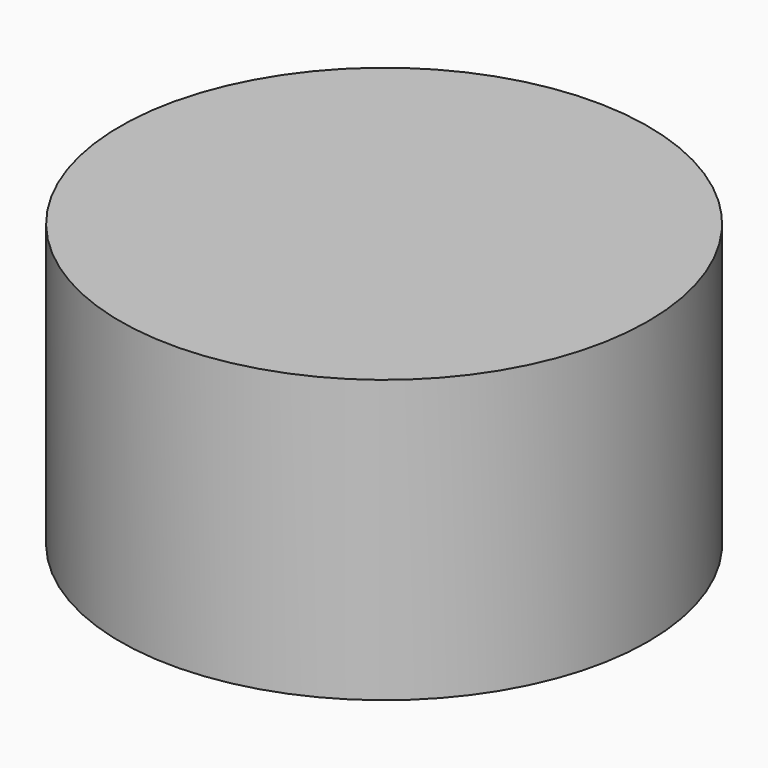
from build123d import *

# Parameters (mm, degrees)
PRISM009_DEPTH    = 1.1
CYLINDER054_R     = 2.34
CYLINDER054_DEPTH = 2.5


with BuildPart() as prism009:
    # Prism009 → Prism009 (new body)
    with BuildSketch(Plane.XY.offset(-23)):
        Polygon((1, 0), (0.5, 0.866025), (-0.5, 0.866025), (-1, 0), (-0.5, -0.866025), (0.5, -0.866025), align=None)
    extrude(amount=PRISM009_DEPTH)


with BuildPart() as cut044:
    # Cylinder054 → Cylinder054 (new body)
    with BuildSketch(Plane.XY.offset(-22.5)):
        Circle(CYLINDER054_R)
    extrude(amount=CYLINDER054_DEPTH)

    # Cut044: cut Prism009
    add(prism009.part, mode=Mode.SUBTRACT)


solid = cut044.part
